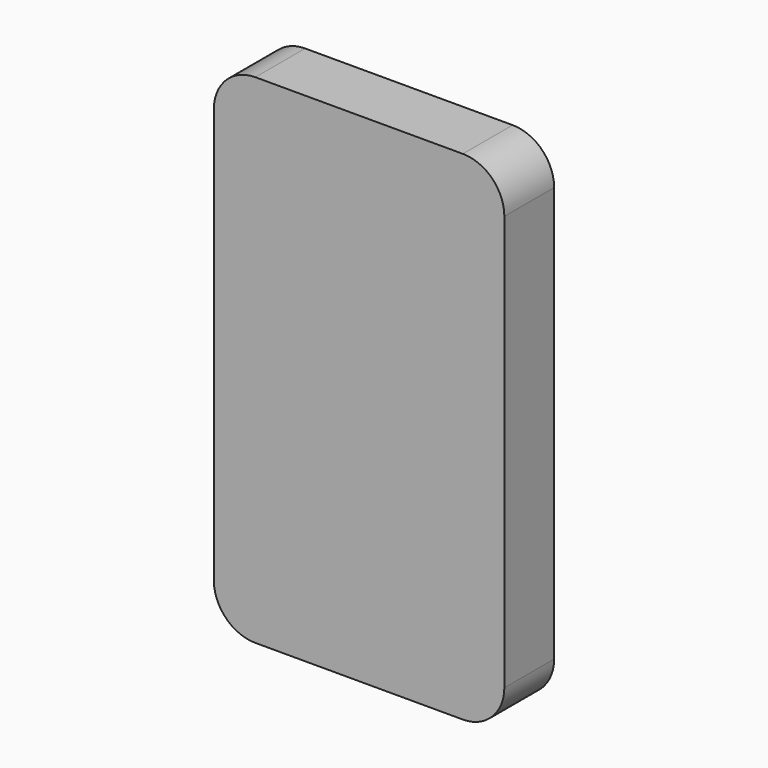
from build123d import *

# Parameters (mm, degrees)
F0_W     = 17.78
F0_H     = 30.48
F1_DEPTH = 3.81
F2_R     = 2.54
F3_R     = 2.54


with BuildPart() as f1:
    # F0 (on Front) → F1 (new body)
    with BuildSketch(Plane.XZ):
        with Locations((-17.9832, -5.773323)):
            Rectangle(F0_W, F0_H)
    extrude(amount=F1_DEPTH)

    # F2
    f2_edges = [f1.edges().sort_by_distance(p)[0] for p in [
        (-9.0932, -1.905, 9.466677),
        (-26.8732, -1.905, 9.466677),
    ]]
    fillet(f2_edges, radius=F2_R)

    # F3
    f3_edges = [f1.edges().sort_by_distance(p)[0] for p in [
        (-26.8732, -1.905, -21.013323),
        (-9.0932, -1.905, -21.013323),
    ]]
    fillet(f3_edges, radius=F3_R)


solid = f1.part
